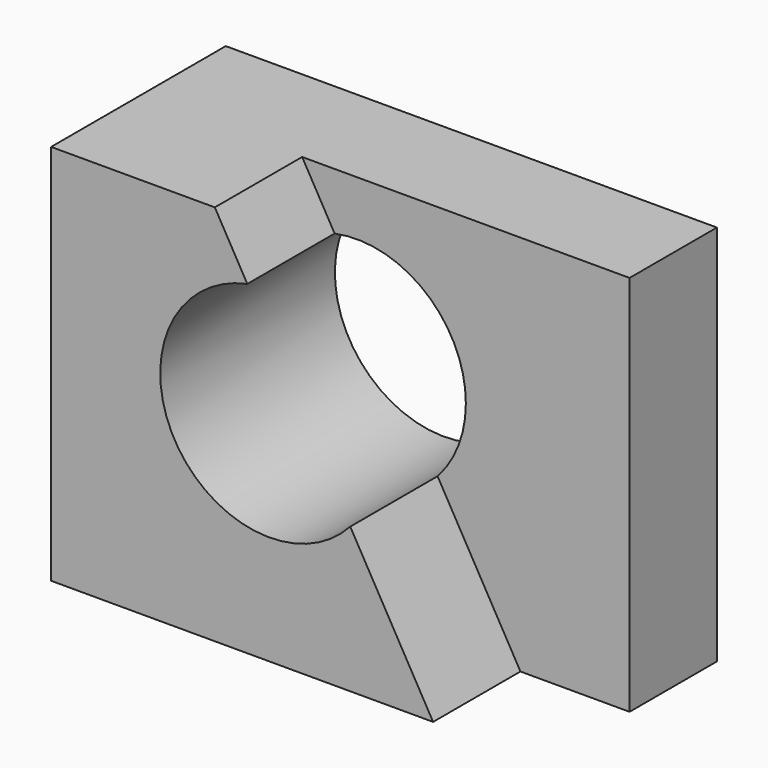
from build123d import *

# Parameters (mm, degrees)
F1_DEPTH = 25.4
F2_DEPTH = 50.8


with BuildPart() as f1:
    # F0 (on Front) → F1 (new body)
    with BuildSketch(Plane.XZ):
        with BuildLine():
            Line((57.15, -44.45), (57.15, 44.45))
            Line((57.15, 44.45), (-19.05, 44.45))
            Line((-19.05, 44.45), (-11.492296, 31.224018))
            ThreePointArc((-11.492296, 31.224018), (9.689727, 26.044851), (19.05, 6.35))
            ThreePointArc((19.05, 6.35), (17.347765, -2.791986), (12.469219, -10.708634))
            Line((12.469219, -10.708634), (31.75, -44.45))
            Line((31.75, -44.45), (57.15, -44.45))
        make_face()
    extrude(amount=F1_DEPTH)

    # F0 (on Front) → F2 (join)
    with BuildSketch(Plane.XZ):
        with BuildLine():
            Line((-11.492296, 31.224018), (-19.05, 44.45))
            Line((-19.05, 44.45), (-57.15, 44.45))
            Line((-57.15, 44.45), (-57.15, -44.45))
            Line((-57.15, -44.45), (31.75, -44.45))
            Line((31.75, -44.45), (12.469219, -10.708634))
            ThreePointArc((12.469219, -10.708634), (-28.403376, -6.251929), (-11.492296, 31.224018))
        make_face()
    extrude(amount=F2_DEPTH)


solid = f1.part
